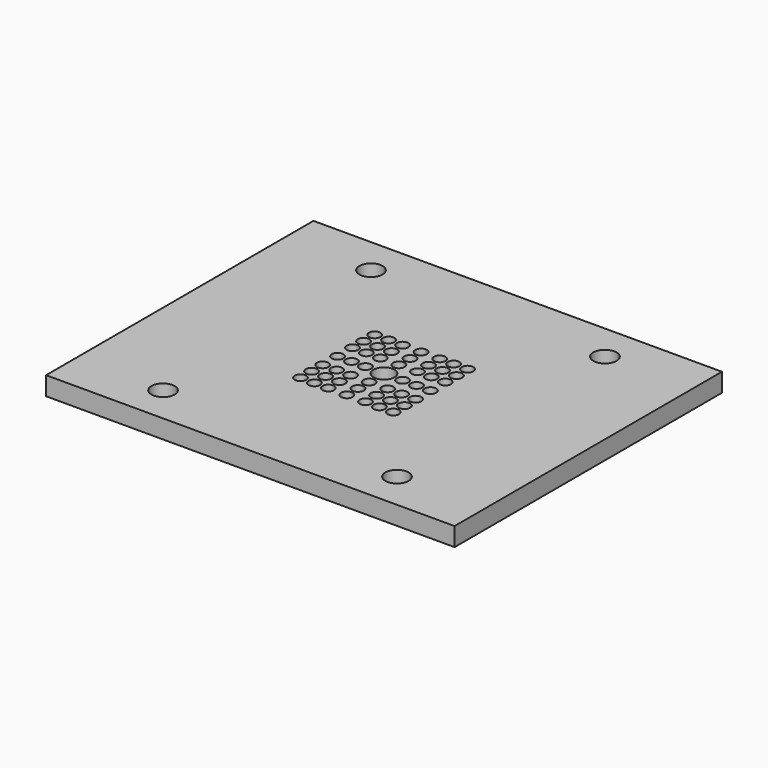
from build123d import *

# Parameters (mm, degrees)
F0_W     = 558.8
F0_H     = 457.2
F1_DEPTH = 25.4
F2_R     = 15.875
F3_DEPTH = 25.401
F4_R     = 14.2875
F4_R_2   = 7.9375
F5_DEPTH = 25.401
F6_R     = 7.9375
F6_R_2   = 4.7625
F7_DEPTH = 12.7


with BuildPart() as f1:
    # F0 (on Top) → F1 (new body)
    with BuildSketch(Plane.XY):
        Rectangle(F0_W, F0_H)
    extrude(amount=-F1_DEPTH)

    # F2 (on face) → F3 (cut, through all)
    with BuildSketch(Plane.XY):
        with Locations((-160.02, -177.8)):
            Circle(F2_R)
        with Locations((160.02, -177.8)):
            Circle(F2_R)
        with BuildLine():
            ThreePointArc((-175.895, 177.8), (-160.02, 161.925), (-144.145, 177.8))
            ThreePointArc((-144.145, 177.8), (-160.02, 193.675), (-175.895, 177.8))
        make_face()
        with Locations((160.02, 177.8)):
            Circle(F2_R)
    extrude(amount=-F3_DEPTH, mode=Mode.SUBTRACT)

    # F4 (on face) → F5 (cut, through all)
    with BuildSketch(Plane.XY):
        Circle(F4_R)
        with Locations((-63.5, 63.5)):
            Circle(F4_R_2)
        with Locations((-44.45, 63.5)):
            Circle(F4_R_2)
        with Locations((-25.4, 63.5)):
            Circle(F4_R_2)
        with Locations((-63.5, 44.45)):
            Circle(F4_R_2)
        with Locations((-63.5, 25.4)):
            Circle(F4_R_2)
        with Locations((-44.45, 44.45)):
            Circle(F4_R_2)
        with Locations((-25.4, 44.45)):
            Circle(F4_R_2)
        with Locations((-44.45, 25.4)):
            Circle(F4_R_2)
        with Locations((-25.4, 25.4)):
            Circle(F4_R_2)
        with BuildLine():
            ThreePointArc((0, 71.4375), (-5.61266, 57.88734), (7.9375, 63.5))
            ThreePointArc((7.9375, 63.5), (5.61266, 69.11266), (0, 71.4375))
        make_face()
        with Locations((0, 44.45)):
            Circle(F4_R_2)
        with Locations((0, 25.4)):
            Circle(F4_R_2)
        with Locations((25.4, 63.5)):
            Circle(F4_R_2)
        with Locations((44.45, 63.5)):
            Circle(F4_R_2)
        with Locations((63.5, 63.5)):
            Circle(F4_R_2)
        with Locations((25.4, 44.45)):
            Circle(F4_R_2)
        with Locations((25.4, 25.4)):
            Circle(F4_R_2)
        with Locations((44.45, 44.45)):
            Circle(F4_R_2)
        with Locations((63.5, 44.45)):
            Circle(F4_R_2)
        with Locations((44.45, 25.4)):
            Circle(F4_R_2)
        with Locations((63.5, 25.4)):
            Circle(F4_R_2)
        with Locations((-63.5, 0)):
            Circle(F4_R_2)
        with Locations((-44.45, 0)):
            Circle(F4_R_2)
        with Locations((-25.4, 0)):
            Circle(F4_R_2)
        with BuildLine():
            ThreePointArc((-71.4375, -25.4), (-63.5, -33.3375), (-55.5625, -25.4))
            ThreePointArc((-55.5625, -25.4), (-63.5, -17.4625), (-71.4375, -25.4))
        make_face()
        with Locations((-63.5, -44.45)):
            Circle(F4_R_2)
        with Locations((-44.45, -25.4)):
            Circle(F4_R_2)
        with Locations((-25.4, -25.4)):
            Circle(F4_R_2)
        with Locations((-44.45, -44.45)):
            Circle(F4_R_2)
        with Locations((-25.4, -44.45)):
            Circle(F4_R_2)
        with Locations((-63.5, -63.5)):
            Circle(F4_R_2)
        with Locations((-44.45, -63.5)):
            Circle(F4_R_2)
        with Locations((-25.4, -63.5)):
            Circle(F4_R_2)
        with Locations((0, -25.4)):
            Circle(F4_R_2)
        with Locations((0, -44.45)):
            Circle(F4_R_2)
        with BuildLine():
            ThreePointArc((0, -71.4375), (5.61266, -69.11266), (7.9375, -63.5))
            ThreePointArc((7.9375, -63.5), (-5.61266, -57.88734), (0, -71.4375))
        make_face()
        with Locations((25.4, 0)):
            Circle(F4_R_2)
        with Locations((44.45, 0)):
            Circle(F4_R_2)
        with Locations((63.5, 0)):
            Circle(F4_R_2)
        with Locations((25.4, -25.4)):
            Circle(F4_R_2)
        with Locations((44.45, -25.4)):
            Circle(F4_R_2)
        with Locations((63.5, -25.4)):
            Circle(F4_R_2)
        with Locations((25.4, -44.45)):
            Circle(F4_R_2)
        with Locations((44.45, -44.45)):
            Circle(F4_R_2)
        with Locations((63.5, -44.45)):
            Circle(F4_R_2)
        with Locations((25.4, -63.5)):
            Circle(F4_R_2)
        with Locations((44.45, -63.5)):
            Circle(F4_R_2)
        with Locations((63.5, -63.5)):
            Circle(F4_R_2)
    extrude(amount=-F5_DEPTH, mode=Mode.SUBTRACT)

    # F6 (on face) → F7 (join)
    with BuildSketch(Plane(origin=(0, 0, -25.4), x_dir=(1, 0, 0), z_dir=(0, 0, -1))):
        with Locations((63.5, 63.5)):
            Circle(F6_R)
        with Locations((63.5, 63.5)):
            Circle(F6_R_2, mode=Mode.SUBTRACT)
        with Locations((63.5, 44.45)):
            Circle(F6_R)
        with Locations((63.5, 44.45)):
            Circle(F6_R_2, mode=Mode.SUBTRACT)
        with Locations((44.45, 44.45)):
            Circle(F6_R)
        with Locations((44.45, 44.45)):
            Circle(F6_R_2, mode=Mode.SUBTRACT)
        with Locations((44.45, 63.5)):
            Circle(F6_R)
        with Locations((44.45, 63.5)):
            Circle(F6_R_2, mode=Mode.SUBTRACT)
        with Locations((25.4, 63.5)):
            Circle(F6_R)
        with Locations((25.4, 63.5)):
            Circle(F6_R_2, mode=Mode.SUBTRACT)
        with Locations((25.4, 44.45)):
            Circle(F6_R)
        with Locations((25.4, 44.45)):
            Circle(F6_R_2, mode=Mode.SUBTRACT)
        with Locations((25.4, 25.4)):
            Circle(F6_R)
        with Locations((25.4, 25.4)):
            Circle(F6_R_2, mode=Mode.SUBTRACT)
        with Locations((44.45, 25.4)):
            Circle(F6_R)
        with Locations((44.45, 25.4)):
            Circle(F6_R_2, mode=Mode.SUBTRACT)
        with Locations((63.5, 25.4)):
            Circle(F6_R)
        with Locations((63.5, 25.4)):
            Circle(F6_R_2, mode=Mode.SUBTRACT)
        with Locations((63.5, 0)):
            Circle(F6_R)
        with Locations((63.5, 0)):
            Circle(F6_R_2, mode=Mode.SUBTRACT)
        with Locations((44.45, 0)):
            Circle(F6_R)
        with Locations((44.45, 0)):
            Circle(F6_R_2, mode=Mode.SUBTRACT)
        with Locations((25.4, 0)):
            Circle(F6_R)
        with Locations((25.4, 0)):
            Circle(F6_R_2, mode=Mode.SUBTRACT)
        with Locations((25.4, -25.4)):
            Circle(F6_R)
        with Locations((25.4, -25.4)):
            Circle(F6_R_2, mode=Mode.SUBTRACT)
        with Locations((44.45, -25.4)):
            Circle(F6_R)
        with Locations((44.45, -25.4)):
            Circle(F6_R_2, mode=Mode.SUBTRACT)
        with Locations((63.5, -25.4)):
            Circle(F6_R)
        with Locations((63.5, -25.4)):
            Circle(F6_R_2, mode=Mode.SUBTRACT)
        with Locations((63.5, -44.45)):
            Circle(F6_R)
        with Locations((63.5, -44.45)):
            Circle(F6_R_2, mode=Mode.SUBTRACT)
        with Locations((44.45, -44.45)):
            Circle(F6_R)
        with Locations((44.45, -44.45)):
            Circle(F6_R_2, mode=Mode.SUBTRACT)
        with Locations((25.4, -44.45)):
            Circle(F6_R)
        with Locations((25.4, -44.45)):
            Circle(F6_R_2, mode=Mode.SUBTRACT)
        with Locations((25.4, -63.5)):
            Circle(F6_R)
        with Locations((25.4, -63.5)):
            Circle(F6_R_2, mode=Mode.SUBTRACT)
        with Locations((44.45, -63.5)):
            Circle(F6_R)
        with Locations((44.45, -63.5)):
            Circle(F6_R_2, mode=Mode.SUBTRACT)
        with Locations((63.5, -63.5)):
            Circle(F6_R)
        with Locations((63.5, -63.5)):
            Circle(F6_R_2, mode=Mode.SUBTRACT)
        with Locations((0, -25.4)):
            Circle(F6_R)
        with Locations((0, -25.4)):
            Circle(F6_R_2, mode=Mode.SUBTRACT)
        with Locations((0, -44.45)):
            Circle(F6_R)
        with Locations((0, -44.45)):
            Circle(F6_R_2, mode=Mode.SUBTRACT)
        with Locations((0, -63.5)):
            Circle(F6_R)
        with Locations((0, -63.5)):
            Circle(F6_R_2, mode=Mode.SUBTRACT)
        with Locations((0, 63.5)):
            Circle(F6_R)
        with Locations((0, 63.5)):
            Circle(F6_R_2, mode=Mode.SUBTRACT)
        with Locations((0, 44.45)):
            Circle(F6_R)
        with Locations((0, 44.45)):
            Circle(F6_R_2, mode=Mode.SUBTRACT)
        with Locations((0, 25.4)):
            Circle(F6_R)
        with Locations((0, 25.4)):
            Circle(F6_R_2, mode=Mode.SUBTRACT)
        with Locations((-25.4, 25.4)):
            Circle(F6_R)
        with Locations((-25.4, 25.4)):
            Circle(F6_R_2, mode=Mode.SUBTRACT)
        with Locations((-25.4, 44.45)):
            Circle(F6_R)
        with Locations((-25.4, 44.45)):
            Circle(F6_R_2, mode=Mode.SUBTRACT)
        with Locations((-25.4, 63.5)):
            Circle(F6_R)
        with Locations((-25.4, 63.5)):
            Circle(F6_R_2, mode=Mode.SUBTRACT)
        with Locations((-44.45, 63.5)):
            Circle(F6_R)
        with Locations((-44.45, 63.5)):
            Circle(F6_R_2, mode=Mode.SUBTRACT)
        with Locations((-44.45, 44.45)):
            Circle(F6_R)
        with Locations((-44.45, 44.45)):
            Circle(F6_R_2, mode=Mode.SUBTRACT)
        with Locations((-44.45, 25.4)):
            Circle(F6_R)
        with Locations((-44.45, 25.4)):
            Circle(F6_R_2, mode=Mode.SUBTRACT)
        with Locations((-63.5, 25.4)):
            Circle(F6_R)
        with Locations((-63.5, 25.4)):
            Circle(F6_R_2, mode=Mode.SUBTRACT)
        with Locations((-63.5, 44.45)):
            Circle(F6_R)
        with Locations((-63.5, 44.45)):
            Circle(F6_R_2, mode=Mode.SUBTRACT)
        with Locations((-63.5, 63.5)):
            Circle(F6_R)
        with Locations((-63.5, 63.5)):
            Circle(F6_R_2, mode=Mode.SUBTRACT)
        with Locations((-63.5, 0)):
            Circle(F6_R)
        with Locations((-63.5, 0)):
            Circle(F6_R_2, mode=Mode.SUBTRACT)
        with Locations((-44.45, 0)):
            Circle(F6_R)
        with Locations((-44.45, 0)):
            Circle(F6_R_2, mode=Mode.SUBTRACT)
        with Locations((-25.4, 0)):
            Circle(F6_R)
        with Locations((-25.4, 0)):
            Circle(F6_R_2, mode=Mode.SUBTRACT)
        with Locations((-25.4, -25.4)):
            Circle(F6_R)
        with Locations((-25.4, -25.4)):
            Circle(F6_R_2, mode=Mode.SUBTRACT)
        with Locations((-44.45, -25.4)):
            Circle(F6_R)
        with Locations((-44.45, -25.4)):
            Circle(F6_R_2, mode=Mode.SUBTRACT)
        with Locations((-63.5, -25.4)):
            Circle(F6_R)
        with Locations((-63.5, -25.4)):
            Circle(F6_R_2, mode=Mode.SUBTRACT)
        with Locations((-63.5, -44.45)):
            Circle(F6_R)
        with Locations((-63.5, -44.45)):
            Circle(F6_R_2, mode=Mode.SUBTRACT)
        with Locations((-44.45, -44.45)):
            Circle(F6_R)
        with Locations((-44.45, -44.45)):
            Circle(F6_R_2, mode=Mode.SUBTRACT)
        with Locations((-25.4, -44.45)):
            Circle(F6_R)
        with Locations((-25.4, -44.45)):
            Circle(F6_R_2, mode=Mode.SUBTRACT)
        with Locations((-25.4, -63.5)):
            Circle(F6_R)
        with Locations((-25.4, -63.5)):
            Circle(F6_R_2, mode=Mode.SUBTRACT)
        with Locations((-44.45, -63.5)):
            Circle(F6_R)
        with Locations((-44.45, -63.5)):
            Circle(F6_R_2, mode=Mode.SUBTRACT)
        with Locations((-63.5, -63.5)):
            Circle(F6_R)
        with Locations((-63.5, -63.5)):
            Circle(F6_R_2, mode=Mode.SUBTRACT)
    extrude(amount=-F7_DEPTH)


solid = f1.part
